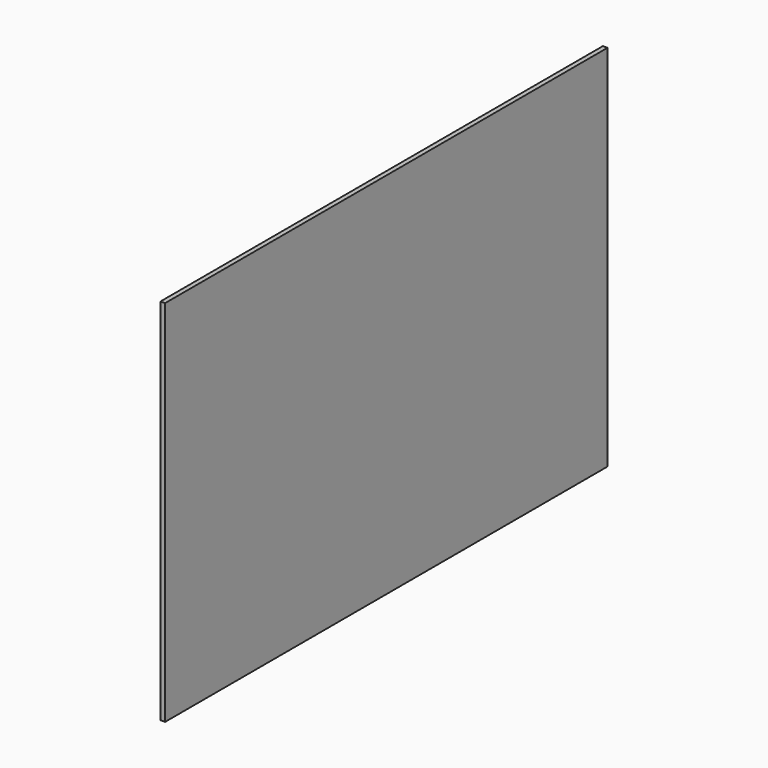
from build123d import *

# Parameters (mm, degrees)
F0_W     = 304.8
F0_H     = 203.2
F1_DEPTH = 2.54
F2_ANGLE = 90


with BuildPart() as f1:
    # F0 (on Front) → F1 (new body)
    with BuildSketch(Plane.XZ):
        Rectangle(F0_W, F0_H)
    extrude(amount=F1_DEPTH)


with BuildPart() as f1_1:
    # F2: moved
    add(f1.part.rotate(Axis((-152.4, -2.54, 0), (0, 0, -1)), F2_ANGLE))


solid = f1_1.part
